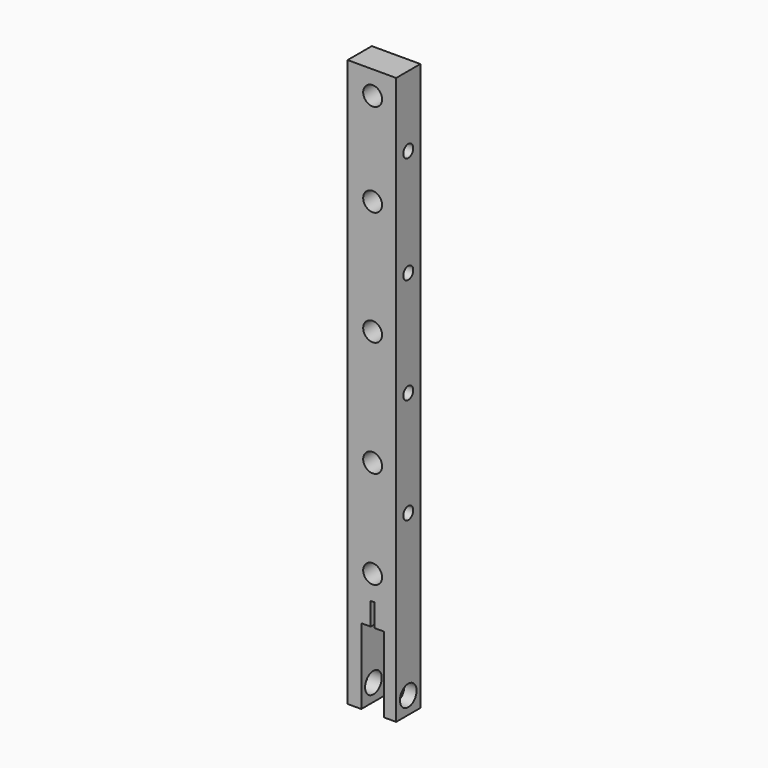
from build123d import *

# Parameters (mm, degrees)
F1_DEPTH = 8
F3_D     = 5.5
F5_D     = 5
F7_D     = 3.3


with BuildPart() as f1:
    # F0 (on Front) → F1 (new body)
    with BuildSketch(Plane.XZ):
        Polygon((-6.6129033404, 0), (-3, 0), (-3, 20), (-0.5, 20), (-0.5, 26), (0.5, 26), (0.5, 20), (3, 20), (3, 0), (6.2258067564, 0), (6.2258067564, 150), (-6.6129033404, 150), align=None)
    extrude(amount=F1_DEPTH)

    # F3 (through all)
    with Locations(Plane(origin=(-6.6129033404, 0, 0), x_dir=(0, -1, 0), z_dir=(-1, 0, 0))):
        with Locations((4, 4.5417556539)):
            Hole(F3_D / 2)

    # F5 (through all)
    with Locations(Plane.XZ.offset(8)):
        with Locations((0, 32.4720963836), (0, 58.3593994379), (0, 88.90619874), (0, 119.1896349192), (0, 143.8203305006)):
            Hole(F5_D / 2)

    # F7 (through all)
    with Locations(Plane(origin=(-6.6129033404, 0, 0), x_dir=(0, -1, 0), z_dir=(-1, 0, 0))):
        with Locations((4, 131.3748806715), (4, 102.970726788), (4, 75), (4, 47.0387488604)):
            Hole(F7_D / 2)


solid = f1.part
